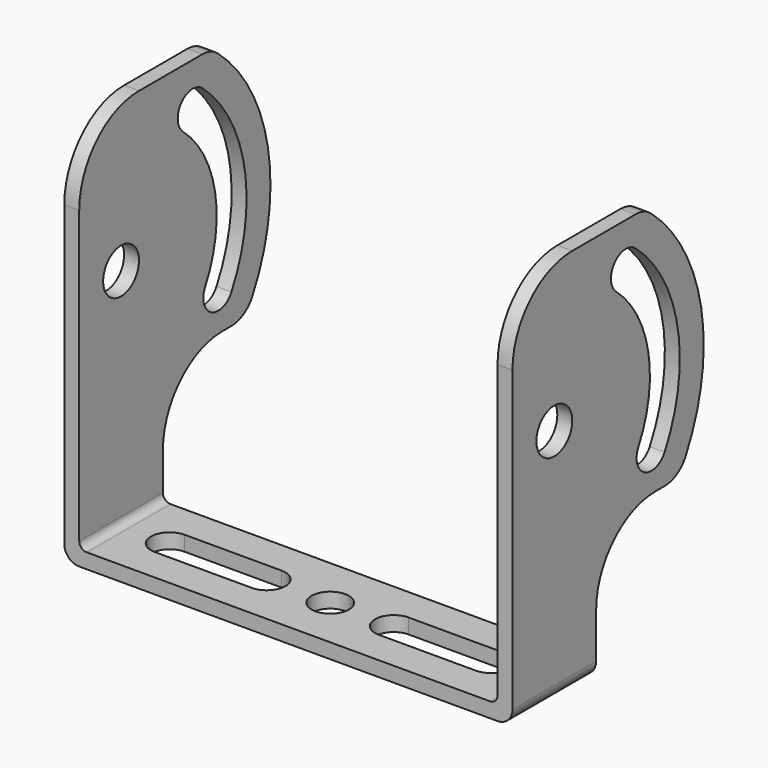
from build123d import *

# Parameters (mm, degrees)
F0_R     = 1.5
F1_DEPTH = 15
F3_DEPTH = 25
F4_R     = 1
F5_R     = 1.25
F6_DEPTH = 25


with BuildPart() as f1:
    # F0 (on Right) → F1 (new body, symmetric)
    with BuildSketch(Plane.YZ):
        with BuildLine():
            Line((-3.5, 21), (-3.5, 0))
            Line((-3.5, 0), (3.5, 0))
            Line((3.5, 0), (3.5, 4))
            ThreePointArc((3.5, 4), (4.964466, 7.535534), (8.5, 9))
            Line((8.5, 9), (9.233093, 9))
            ThreePointArc((9.233093, 9), (10.256625, 9.281751), (10.991777, 10.047619))
            ThreePointArc((10.991777, 10.047619), (12.286782, 18.298911), (8.096113, 25.52381))
            ThreePointArc((8.096113, 25.52381), (7.490801, 25.877181), (6.800735, 26))
            Line((6.800735, 26), (1.5, 26))
            ThreePointArc((1.5, 26), (-2.035534, 24.535534), (-3.5, 21))
        make_face()
        with Locations((0, 16)):
            Circle(F0_R, mode=Mode.SUBTRACT)
        with BuildLine():
            ThreePointArc((6.800735, 24), (10.320897, 17.931085), (9.233093, 11))
            ThreePointArc((9.233093, 11), (7.538677, 10.49606), (7.034737, 12.190476))
            ThreePointArc((7.034737, 12.190476), (7.86354, 17.471303), (5.181513, 22.095238))
            ThreePointArc((5.181513, 22.095238), (5.038743, 23.85723), (6.800735, 24))
        make_face(mode=Mode.SUBTRACT)
    extrude(amount=F1_DEPTH, both=True)

    # F2 (on face) → F3 (cut)
    with BuildSketch(Plane.XZ.offset(3.5)):
        with BuildLine():
            Line((14, 26), (-14, 26))
            Line((-14, 26), (-14, 1.5))
            ThreePointArc((-14, 1.5), (-13.853553, 1.146447), (-13.5, 1))
            Line((-13.5, 1), (13.5, 1))
            ThreePointArc((13.5, 1), (13.853553, 1.146447), (14, 1.5))
            Line((14, 1.5), (14, 26))
        make_face()
    extrude(amount=-F3_DEPTH, mode=Mode.SUBTRACT)

    # F4
    f4_edges = [f1.edges().sort_by_distance(p)[0] for p in [
        (-15, 0, 0),
        (15, 0, 0),
    ]]
    fillet(f4_edges, radius=F4_R)

    # F5 (on face) → F6 (cut)
    with BuildSketch(Plane(origin=(0, 0, 0), x_dir=(1, 0, 0), z_dir=(0, 0, -1))):
        Circle(F5_R)
        with BuildLine():
            ThreePointArc((-10.75, 1.25), (-12, 0), (-10.75, -1.25))
            Line((-10.75, -1.25), (-4.25, -1.25))
            ThreePointArc((-4.25, -1.25), (-3, 0), (-4.25, 1.25))
            Line((-4.25, 1.25), (-10.75, 1.25))
        make_face()
        with BuildLine():
            ThreePointArc((10.75, -1.25), (12, 0), (10.75, 1.25))
            Line((10.75, 1.25), (4.25, 1.25))
            ThreePointArc((4.25, 1.25), (3, 0), (4.25, -1.25))
            Line((4.25, -1.25), (10.75, -1.25))
        make_face()
    extrude(amount=-F6_DEPTH, mode=Mode.SUBTRACT)


solid = f1.part
